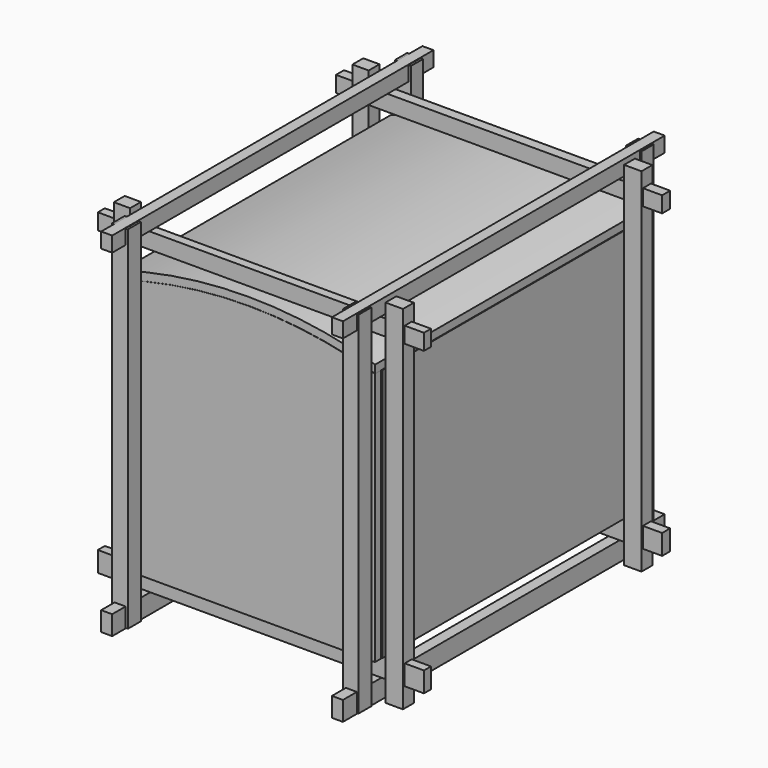
from build123d import *

# Parameters (mm, degrees)
F3_START      = -123.0650097132
F3_DEPTH      = 5.7963579893
F5_START      = -90.6123444438
F4_W          = 187.5103265047
F4_H          = 247.888892889
F5_DEPTH      = 6.435342133
F6_DEPTH      = 128.9073675871
F6_DEPTH_BACK = 128.6972612143
F7_START      = 123.4710663557
F7_DEPTH      = 5.6094527245
F9_START      = 91.8827354908
F8_W          = 244.867682457
F8_H          = 193.7794089317
F9_DEPTH      = 5.4575353861
F11_START     = -90.8925160766
F10_W         = 245.4828619957
F10_H         = 192.7795410156
F10_W_2       = 87.1525136754
F10_H_2       = 76.4309763908
F11_DEPTH     = 5.7103261352
F10_W_3       = 72.0724808052
F10_H_3       = 61.7944300175
F12_DEPTH     = 25.4
F15_START     = -88.9365822077
F14_W         = 87.7868533134
F14_H         = 76.2592852116
F14_W_2       = 71.6482400894
F14_H_2       = 61.5394636989
F15_DEPTH     = 9.5741301775
F17_START     = -91.6945785284
F16_W         = 87.1799633379
F16_H         = 158.8803604245
F17_DEPTH     = 4.6653226018
F19_START     = -88.8174176216
F19_DEPTH     = 9.6507817507
F21_START     = -89.6183401346
F20_R         = 3.9080389163
F21_DEPTH     = 8.8060647249
F22_R         = 2.0900958716
F24_START     = 97.7928191423
F23_W         = 10.3558301926
F23_H         = 269.3057358265
F24_DEPTH     = 13.3169591427
F23_W_2       = 10.3495940566
F25_START     = -97.3452329636
F25_DEPTH     = 12.3960673809
F27_START     = -128.8853734732
F26_W         = 11.9174420834
F26_H         = 268.2635486126
F27_DEPTH     = 11.5931034088
F26_W_2       = 12.3124718666
F26_H_2       = 268.6581909657
F28_START     = 129.2447000742
F28_DEPTH     = 12.2640728951
F30_START     = 129.9640238285
F29_W         = 8.402377367
F29_H         = 306.8140745163
F30_DEPTH     = 11.5577429533
F29_H_2       = 307.3233067989
F31_START     = -113.1547391415
F31_DEPTH     = 14.7791802883
F33_START     = -97.5365191698
F32_W         = 249.1806745529
F32_H         = 7.6806098223
F33_DEPTH     = 15.4261887074
F32_H_2       = 6.6973119974
F34_START     = 117.3913180828
F34_DEPTH     = 12.2061520815


with BuildPart() as f3:
    # F0 (on Front) → F3 (new body)
    with BuildSketch(Plane.XZ.offset(F3_START)):
        with BuildLine():
            Line((97.0369726419, -96.8869626522), (97.0369726419, 97.0369651914))
            ThreePointArc((97.0369726419, 97.0369651914), (0.0750124454, 111.2850093867), (-96.886947751, 97.0369651914))
            Line((-96.886947751, 97.0369651914), (-96.886947751, -96.8869626522))
            Line((-96.886947751, -96.8869626522), (97.0369726419, -96.8869626522))
        make_face()
    extrude(amount=-F3_DEPTH)


with BuildPart() as f5:
    # F4 (on Top) → F5 (new body)
    with BuildSketch(Plane.XY.offset(F5_START)):
        Rectangle(F4_W, F4_H)
    extrude(amount=-F5_DEPTH)


with BuildPart() as f6:
    # F0 (on Front) → F6 (new body, two sides)
    with BuildSketch(Plane.XZ) as f6_sk:
        with BuildLine():
            ThreePointArc((-96.886947751, 97.0369651914), (0.0750124454, 111.2850093867), (97.0369726419, 97.0369651914))
            Line((97.0369726419, 97.0369651914), (97.0369726419, 103.1856536865))
            ThreePointArc((97.0369726419, 103.1856536865), (0.0882706031, 117.3016902224), (-96.886947751, 103.3689826727))
            Line((-96.886947751, 103.3689826727), (-96.886947751, 97.0369651914))
        make_face()
    extrude(amount=F6_DEPTH)
    extrude(f6_sk.sketch, amount=-F6_DEPTH_BACK)


with BuildPart() as f7:
    # F2 (on face) → F7 (new body)
    with BuildSketch(Plane.XZ.offset(F7_START)):
        with BuildLine():
            Line((-96.886947751, -96.8869626522), (97.0369726419, -96.8869626522))
            Line((97.0369726419, -96.8869626522), (97.0369726419, 97.0369651914))
            ThreePointArc((97.0369726419, 97.0369651914), (0.0750124454, 111.2850093867), (-96.886947751, 97.0369651914))
            Line((-96.886947751, 97.0369651914), (-96.886947751, -96.8869626522))
        make_face()
    extrude(amount=F7_DEPTH)


with BuildPart() as f9:
    # F8 (on Right) → F9 (new body)
    with BuildSketch(Plane.YZ.offset(F9_START)):
        Rectangle(F8_W, F8_H)
    extrude(amount=F9_DEPTH)


with BuildPart() as f11:
    # F10 (on Right) → F11 (new body)
    with BuildSketch(Plane.YZ.offset(F11_START)):
        Rectangle(F10_W, F10_H)
        Polygon((0, 76.6467601061), (0, 0), (0, -89.4377827644), (-102.9384583235, -89.4377827644), (-102.9384583235, 76.6467601061), align=None, mode=Mode.SUBTRACT)
        with Locations((56.1074004509, 38.2154881954)):
            Rectangle(F10_W_2, F10_H_2, mode=Mode.SUBTRACT)
    extrude(amount=-F11_DEPTH)


with BuildPart() as f12:
    # F10 (on Right) → F12 (new body)
    with BuildSketch(Plane.YZ):
        Rectangle(F10_W, F10_H)
        Polygon((0, 76.6467601061), (0, 0), (0, -89.4377827644), (-102.9384583235, -89.4377827644), (-102.9384583235, 76.6467601061), align=None, mode=Mode.SUBTRACT)
        with Locations((56.1074004509, 38.2154881954)):
            Rectangle(F10_W_2, F10_H_2, mode=Mode.SUBTRACT)
        with Locations((56.1074004509, 38.2154881954)):
            Rectangle(F10_W_2, F10_H_2)
        with Locations((56.1074004509, 38.2154881954)):
            Rectangle(F10_W_3, F10_H_3, mode=Mode.SUBTRACT)
    extrude(amount=F12_DEPTH)


with BuildPart() as f15:
    # F14 (on Right) → F15 (new body)
    with BuildSketch(Plane.YZ.offset(F15_START)):
        with Locations((56.1304092407, 37.9523038864)):
            Rectangle(F14_W, F14_H)
        with Locations((56.2190711498, 38.2183305919)):
            Rectangle(F14_W_2, F14_H_2, mode=Mode.SUBTRACT)
    extrude(amount=-F15_DEPTH)


with BuildPart() as f17:
    # F16 (on Right) → F17 (new body)
    with BuildSketch(Plane.YZ.offset(F17_START)):
        with Locations((-51.0302581129, -10.097425431)):
            Rectangle(F16_W, F16_H)
    extrude(amount=-F17_DEPTH)


with BuildPart() as f19:
    # F18 (on Right) → F19 (new body)
    with BuildSketch(Plane.YZ.offset(F19_START)):
        Polygon((-7.5731552206, -89.2094299197), (-0.29357741, -89.2094299197), (-0.29357741, 76.494500041), (-102.8251573443, 76.494500041), (-102.8251573443, -89.3327966332), (-94.805277884, -89.3327966332), (-94.805277884, 69.3382769823), (-7.5731552206, 69.3382769823), align=None)
    extrude(amount=-F19_DEPTH)


with BuildPart() as f21:
    # F20 (on Right) → F21 (new body)
    with BuildSketch(Plane.YZ.offset(F21_START)):
        with Locations((-16.1166191101, -9.9944323301)):
            Circle(F20_R)
    extrude(amount=-F21_DEPTH)

    # F22
    f22_edges = [f21.edges().sort_by_distance(p)[0] for p in [
        (-94.021372, -12.20858, -9.994432),
        (-89.61834, -20.024658, -9.994432),
        (-98.424405, -20.024658, -9.994432),
    ]]
    fillet(f22_edges, radius=F22_R)


with BuildPart() as f24:
    # F23 (on Right) → F24 (new body)
    with BuildSketch(Plane.YZ.offset(F24_START)):
        with Locations((113.0030080676, 6.8670511246)):
            Rectangle(F23_W, F23_H)
    extrude(amount=F24_DEPTH)


with BuildPart() as f24b:
    # F23 (on Right) → F24, piece 2 (new body)
    with BuildSketch(Plane.YZ.offset(F24_START)):
        with Locations((-114.8207075894, 6.8670511246)):
            Rectangle(F23_W_2, F23_H)
    extrude(amount=F24_DEPTH)


with BuildPart() as f25:
    # F23 (on Right) → F25 (new body)
    with BuildSketch(Plane.YZ.offset(F25_START)):
        with Locations((-114.8207075894, 6.8670511246)):
            Rectangle(F23_W_2, F23_H)
    extrude(amount=-F25_DEPTH)


with BuildPart() as f25b:
    # F23 (on Right) → F25, piece 2 (new body)
    with BuildSketch(Plane.YZ.offset(F25_START)):
        with Locations((113.0030080676, 6.8670511246)):
            Rectangle(F23_W, F23_H)
    extrude(amount=-F25_DEPTH)


with BuildPart() as f27:
    # F26 (on Front) → F27 (new body)
    with BuildSketch(Plane.XZ.offset(F27_START)):
        with Locations((88.3624106646, 6.7454725504)):
            Rectangle(F26_W, F26_H)
    extrude(amount=-F27_DEPTH)


with BuildPart() as f27b:
    # F26 (on Front) → F27, piece 2 (new body)
    with BuildSketch(Plane.XZ.offset(F27_START)):
        with Locations((-87.9655778408, 6.743863225)):
            Rectangle(F26_W_2, F26_H_2)
    extrude(amount=-F27_DEPTH)


with BuildPart() as f28:
    # F26 (on Front) → F28 (new body)
    with BuildSketch(Plane.XZ.offset(F28_START)):
        with Locations((-87.9655778408, 6.743863225)):
            Rectangle(F26_W_2, F26_H_2)
    extrude(amount=F28_DEPTH)


with BuildPart() as f28b:
    # F26 (on Front) → F28, piece 2 (new body)
    with BuildSketch(Plane.XZ.offset(F28_START)):
        with Locations((88.3624106646, 6.7454725504)):
            Rectangle(F26_W, F26_H)
    extrude(amount=F28_DEPTH)


with BuildPart() as f30:
    # F29 (on Top) → F30 (new body)
    with BuildSketch(Plane.XY.offset(F30_START)):
        with Locations((-87.7953320742, -0.8970797062)):
            Rectangle(F29_W, F29_H)
    extrude(amount=F30_DEPTH)


with BuildPart() as f30b:
    # F29 (on Top) → F30, piece 2 (new body)
    with BuildSketch(Plane.XY.offset(F30_START)):
        with Locations((88.9091938734, -1.1516958475)):
            Rectangle(F29_W, F29_H_2)
    extrude(amount=F30_DEPTH)


with BuildPart() as f31:
    # F29 (on Top) → F31 (new body)
    with BuildSketch(Plane.XY.offset(F31_START)):
        with Locations((88.9091938734, -1.1516958475)):
            Rectangle(F29_W, F29_H_2)
    extrude(amount=-F31_DEPTH)


with BuildPart() as f31b:
    # F29 (on Top) → F31, piece 2 (new body)
    with BuildSketch(Plane.XY.offset(F31_START)):
        with Locations((-87.7953320742, -0.8970797062)):
            Rectangle(F29_W, F29_H)
    extrude(amount=-F31_DEPTH)


with BuildPart() as f33:
    # F32 (on Top) → F33 (new body)
    with BuildSketch(Plane.XY.offset(F33_START)):
        with Locations((1.2121796608, 113.024957478)):
            Rectangle(F32_W, F32_H)
    extrude(amount=-F33_DEPTH)


with BuildPart() as f33b:
    # F32 (on Top) → F33, piece 2 (new body)
    with BuildSketch(Plane.XY.offset(F33_START)):
        with Locations((1.2121796608, -114.9339750409)):
            Rectangle(F32_W, F32_H_2)
    extrude(amount=-F33_DEPTH)


with BuildPart() as f34:
    # F32 (on Top) → F34 (new body)
    with BuildSketch(Plane.XY.offset(F34_START)):
        with Locations((1.2121796608, 113.024957478)):
            Rectangle(F32_W, F32_H)
    extrude(amount=F34_DEPTH)


with BuildPart() as f34b:
    # F32 (on Top) → F34, piece 2 (new body)
    with BuildSketch(Plane.XY.offset(F34_START)):
        with Locations((1.2121796608, -114.9339750409)):
            Rectangle(F32_W, F32_H_2)
    extrude(amount=F34_DEPTH)


solid = Compound([f3.part, f5.part, f6.part, f7.part, f9.part, f11.part, f15.part, f17.part, f19.part, f21.part, f24.part, f24b.part, f25.part, f25b.part, f27.part, f27b.part, f28.part, f28b.part, f30.part, f30b.part, f31.part, f31b.part, f33.part, f33b.part, f34.part, f34b.part])
